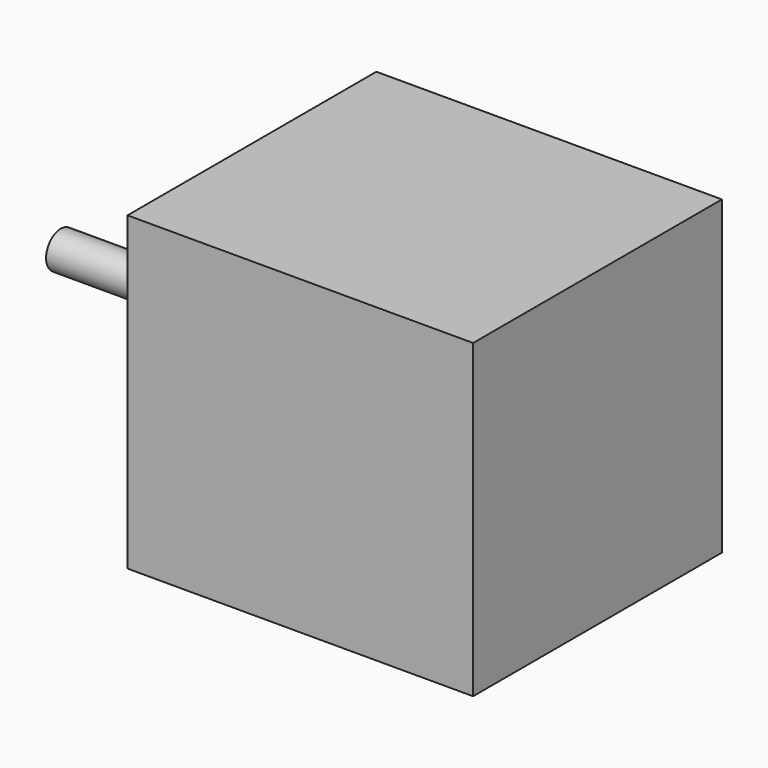
from build123d import *

# Parameters (mm, degrees)
SKETCH037_W     = 47
SKETCH037_H     = 42.3
PAD022_DEPTH    = 42.3
SKETCH038_R     = 1.5
POCKET020_DEPTH = 4.5
SKETCH039_R     = 11
PAD023_DEPTH    = 2
SKETCH040_R     = 2.5
PAD024_DEPTH    = 24


with BuildPart() as part:
    # Sketch037 → Pad022 (new body)
    with BuildSketch(Plane.XY):
        Rectangle(SKETCH037_W, SKETCH037_H)
    extrude(amount=PAD022_DEPTH)

    # Sketch038 (on Face4 of Pad022) → Pocket020 (cut)
    with BuildSketch(Plane(origin=(-23.5, 0, 0), x_dir=(0, -1, 0), z_dir=(-1, 0, 0))):
        with Locations((-15.5, 36.65)):
            Circle(SKETCH038_R)
        with Locations((15.5, 36.65)):
            Circle(SKETCH038_R)
        with Locations((-15.5, 5.65)):
            Circle(SKETCH038_R)
        with Locations((15.5, 5.65)):
            Circle(SKETCH038_R)
    extrude(amount=-POCKET020_DEPTH, mode=Mode.SUBTRACT)

    # Sketch039 (on Face2 of Pocket020) → Pad023 (join)
    with BuildSketch(Plane(origin=(-23.5, 0, 0), x_dir=(0, -1, 0), z_dir=(-1, 0, 0))):
        with Locations((0, 21.15)):
            Circle(SKETCH039_R)
    extrude(amount=PAD023_DEPTH)

    # Sketch040 (on Face13 of Pad023) → Pad024 (join)
    with BuildSketch(Plane(origin=(-25.5, 0, 0), x_dir=(0, -1, 0), z_dir=(-1, 0, 0))):
        with Locations((0, 21.15)):
            Circle(SKETCH040_R)
    extrude(amount=PAD024_DEPTH)


solid = part.part
